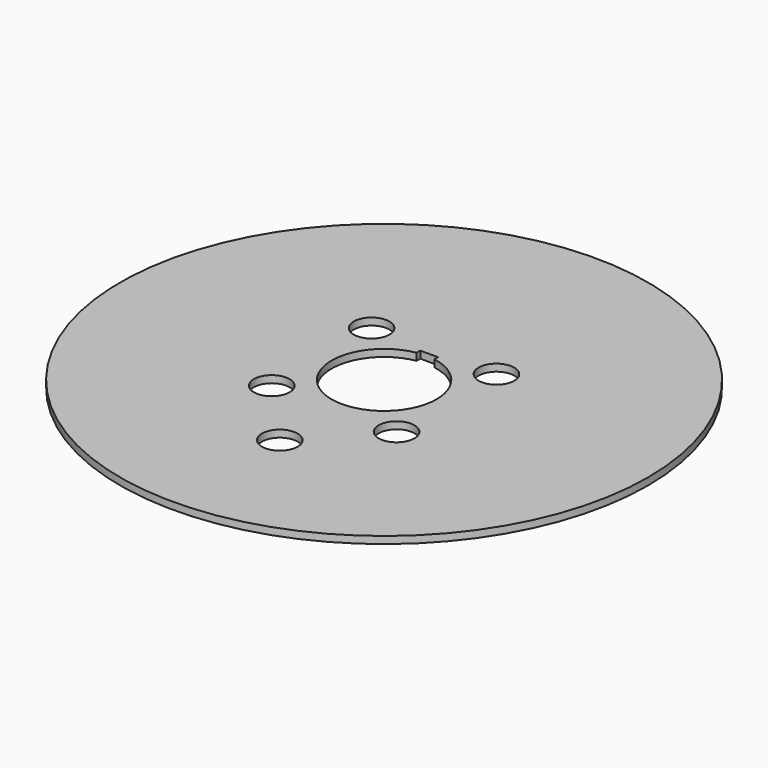
from build123d import *

# Parameters (mm, degrees)
F0_R     = 46.99
F0_R_2   = 3.175
F1_DEPTH = 1.27


with BuildPart() as f1:
    # F0 (on Top) → F1 (new body)
    with BuildSketch(Plane.XY):
        Circle(F0_R)
        with Locations((0, -23.20925)):
            Circle(F0_R_2, mode=Mode.SUBTRACT)
        with Locations((-11.1125, -11.1125)):
            Circle(F0_R_2, mode=Mode.SUBTRACT)
        with Locations((11.1125, -11.1125)):
            Circle(F0_R_2, mode=Mode.SUBTRACT)
        with BuildLine():
            ThreePointArc((1.5875, 9.211406), (7.148735, 6.022104), (9.3472, 0))
            ThreePointArc((9.3472, 0), (-6.022104, -7.148735), (-1.5875, 9.211406))
            Line((-1.5875, 9.211406), (-1.5875, 10.033))
            Line((-1.5875, 10.033), (1.5875, 10.033))
            Line((1.5875, 10.033), (1.5875, 9.211406))
        make_face(mode=Mode.SUBTRACT)
        with Locations((-11.1125, 11.1125)):
            Circle(F0_R_2, mode=Mode.SUBTRACT)
        with Locations((11.1125, 11.1125)):
            Circle(F0_R_2, mode=Mode.SUBTRACT)
    extrude(amount=F1_DEPTH)


solid = f1.part
